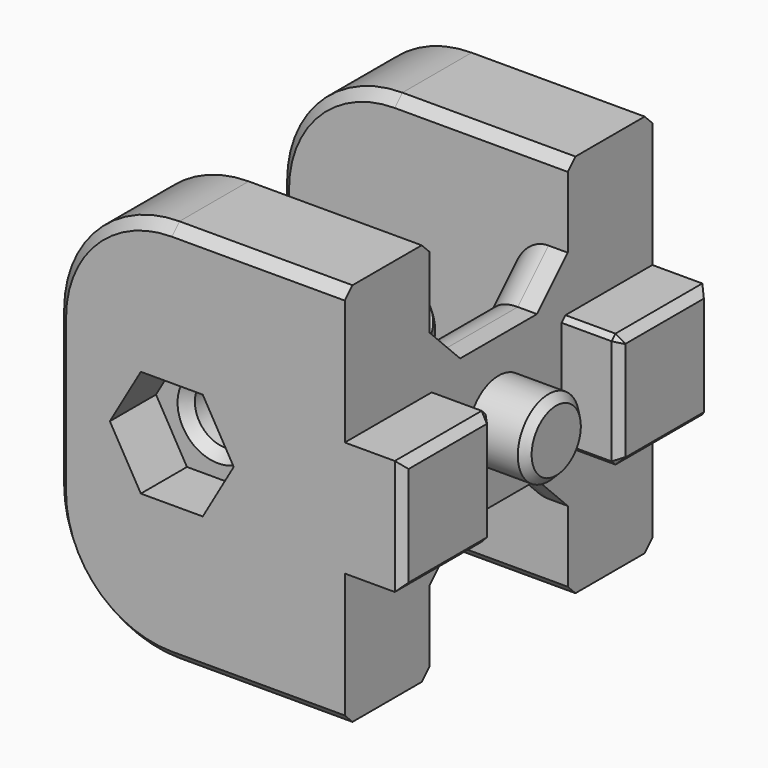
from build123d import *

# Parameters (mm, degrees)
SKETCH059_W          = 20
SKETCH059_H          = 20
PAD020_DEPTH         = 3
SKETCH060_W          = 9
SKETCH060_H          = 6.2
POCKET042_DEPTH      = 3.001
CHAMFER019_SIZE      = 2
PAD021_DEPTH         = 3
SKETCH062_R          = 2
PAD022_DEPTH         = 3
CHAMFER020_SIZE      = 0.4
SKETCH063_W          = 5.5
SKETCH063_H          = 20
PAD023_DEPTH         = 12
FILLET012_R          = 6
FILLET013_R          = 2
SKETCH064_R          = 1.6
POCKET043_DEPTH      = 10.001
POCKET043_DEPTH_BACK = 10.001
CHAMFER021_SIZE      = 2
POCKET044_DEPTH      = 3
CHAMFER022_SIZE      = 0.5


with BuildPart() as part:
    # Sketch059 → Pad020 (new body)
    with BuildSketch(Plane.YZ):
        Rectangle(SKETCH059_W, SKETCH059_H)
    extrude(amount=-PAD020_DEPTH)

    # Sketch060 (on Face5 of Pad020) → Pocket042 (cut, through all)
    with BuildSketch(Plane.YZ):
        with Locations((0, -6.9)):
            Rectangle(SKETCH060_W, SKETCH060_H)
        with Locations((0, 6.9)):
            Rectangle(SKETCH060_W, SKETCH060_H)
    extrude(amount=-POCKET042_DEPTH, mode=Mode.SUBTRACT)

    # Chamfer019
    chamfer019_edges = [part.edges().sort_by_distance(p)[0] for p in [
        (-1.5, 4.5, -3.8),
        (-1.5, -4.5, -3.8),
        (-1.5, -4.5, 3.8),
        (-1.5, 4.5, 3.8),
    ]]
    chamfer(chamfer019_edges, length=CHAMFER019_SIZE)

    # Sketch061 (on Face1 of Chamfer019) → Pad021 (join)
    with BuildSketch(Plane.YZ):
        Polygon((-10, 3), (-4.35, 3), (-4.1, 2.75), (-4.1, -2.75), (-4.35, -3), (-10, -3), align=None)
    pad021 = extrude(amount=PAD021_DEPTH)

    # Mirrored001: Pad021 across Sketch061 V_Axis
    add(pad021.mirror(Plane(origin=(0, 0, 0), x_dir=(1, 0, 0), z_dir=(0, 1, 0))))

    # Sketch062 (on Face1 of Mirrored001) → Pad022 (join)
    with BuildSketch(Plane.YZ):
        Circle(SKETCH062_R)
    extrude(amount=PAD022_DEPTH)

    # Chamfer020
    chamfer020_edges = [part.edges().sort_by_distance(p)[0] for p in [
        (3, -2, 0),
        (3, -7.175, 3),
        (3, -4.225, 2.875),
        (3, -4.1, 0),
        (3, -4.225, -2.875),
        (3, -7.175, -3),
        (3, -10, 0),
        (3, 7.175, 3),
        (3, 4.225, 2.875),
        (3, 4.1, 0),
        (3, 4.225, -2.875),
        (3, 7.175, -3),
        (3, 10, 0),
    ]]
    chamfer(chamfer020_edges, length=CHAMFER020_SIZE)

    # Sketch063 (on Face7 of Chamfer020) → Pad023 (join)
    with BuildSketch(Plane(origin=(-3, 0, 0), x_dir=(0, -1, 0), z_dir=(-1, 0, 0))):
        with Locations((-7.25, 0)):
            Rectangle(SKETCH063_W, SKETCH063_H)
        with Locations((7.25, 0)):
            Rectangle(SKETCH063_W, SKETCH063_H)
    extrude(amount=PAD023_DEPTH)

    # Fillet012
    fillet012_edges = [part.edges().sort_by_distance(p)[0] for p in [
        (-15, 7.25, -10),
        (-15, -7.25, -10),
        (-15, -7.25, 10),
        (-15, 7.25, 10),
    ]]
    fillet(fillet012_edges, radius=FILLET012_R)

    # Fillet013
    fillet013_edges = [part.edges().sort_by_distance(p)[0] for p in [
        (-3, 0, 3.8),
        (-3, 0, -3.8),
        (-3, 3.5, 4.8),
        (-3, -3.5, 4.8),
        (-3, -3.5, -4.8),
        (-3, 3.5, -4.8),
    ]]
    fillet(fillet013_edges, radius=FILLET013_R)

    # Sketch064 → Pocket043 (cut, two sides)
    with BuildSketch(Plane.XZ) as pocket043_sk:
        with Locations((-9, 0)):
            Circle(SKETCH064_R)
    extrude(amount=-POCKET043_DEPTH, mode=Mode.SUBTRACT)
    extrude(pocket043_sk.sketch, amount=POCKET043_DEPTH_BACK, mode=Mode.SUBTRACT)

    # Chamfer021
    chamfer021_edges = [part.edges().sort_by_distance(p)[0] for p in [
        (-10.6, 10, 0),
    ]]
    chamfer(chamfer021_edges, length=CHAMFER021_SIZE)

    # Sketch065 (on Face26 of Chamfer021) → Pocket044 (cut)
    with BuildSketch(Plane.XZ.offset(10)):
        Polygon((-5.778385, 0), (-7.389193, 2.79), (-10.610807, 2.79), (-12.221615, 0), (-10.610807, -2.79), (-7.389193, -2.79), align=None)
    extrude(amount=-POCKET044_DEPTH, mode=Mode.SUBTRACT)

    # Chamfer022
    chamfer022_edges = [part.edges().sort_by_distance(p)[0] for p in [
        (-4.5, -10, 10),
        (-4.5, 10, 10),
        (-4.5, -4.5, 10),
        (-4.5, 4.5, 10),
        (-10.6, 4.5, 0),
        (-10.6, -4.5, 0),
        (-10.6, -7, 0),
    ]]
    chamfer(chamfer022_edges, length=CHAMFER022_SIZE)


with BuildPart() as part_1:
    # Body012 placement: moved
    add(part.part.moved(Location((-154, 26.5, 285))))


solid = part_1.part
